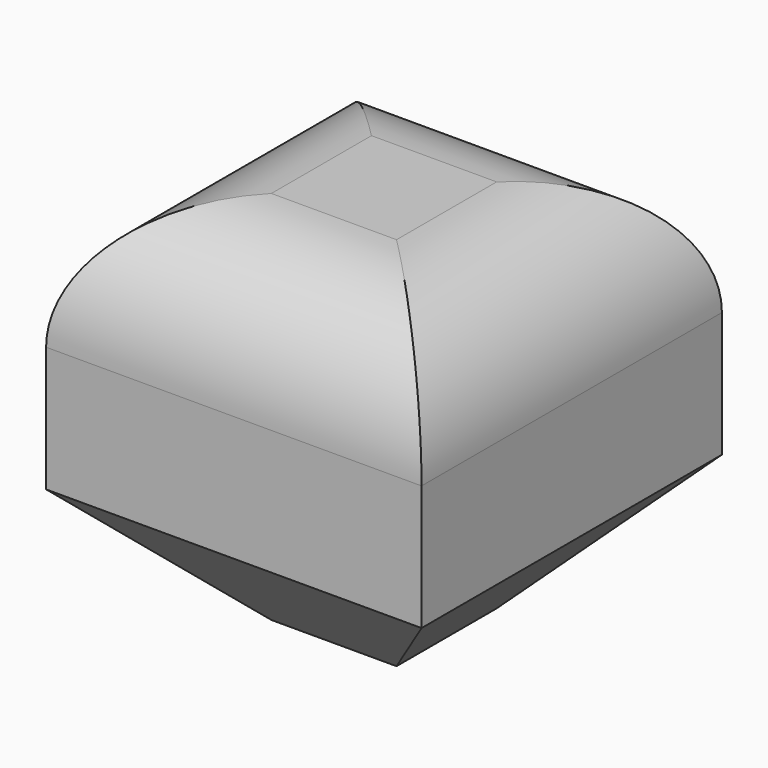
from build123d import *

# Parameters (mm, degrees)
F0_W     = 76.2
F0_H     = 76.2
F1_DEPTH = 76.2
F2_SIZE  = 25.4
F3_R     = 25.4


with BuildPart() as f1:
    # F0 (on Front) → F1 (new body)
    with BuildSketch(Plane.XZ):
        with Locations((38.1, 38.1)):
            Rectangle(F0_W, F0_H)
    extrude(amount=F1_DEPTH)

    # F2
    f2_edges = [f1.edges().sort_by_distance(p)[0] for p in [
        (0, -38.1, 0),
        (76.2, -38.1, 0),
        (38.1, 0, 0),
        (38.1, -76.2, 0),
    ]]
    chamfer(f2_edges, length=F2_SIZE)

    # F3
    f3_edges = [f1.edges().sort_by_distance(p)[0] for p in [
        (76.2, -38.1, 76.2),
        (0, -38.1, 76.2),
        (38.1, 0, 76.2),
        (38.1, -76.2, 76.2),
    ]]
    fillet(f3_edges, radius=F3_R)


solid = f1.part
